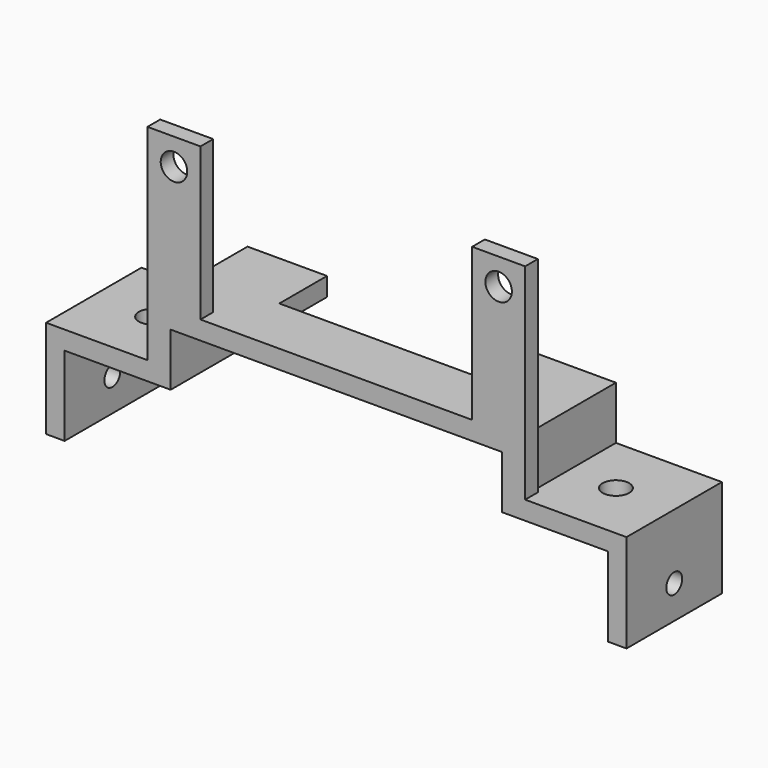
from build123d import *

# Parameters (mm, degrees)
F1_DEPTH = 4.5
F2_R     = 0.75
F3_DEPTH = 43.801
F4_R     = 1
F5_DEPTH = 1.2
F6_R     = 1
F6_W     = 15.8
F6_H     = 4.5
F7_DEPTH = 11.401


with BuildPart() as f1:
    # F0 (on Front) → F1 (new body, symmetric)
    with BuildSketch(Plane.XZ):
        Polygon((12.5, 4), (12.5, 0), (20.5, 0), (20.5, -6), (21.9, -6), (21.9, 1.4), (13.9, 1.4), (13.9, 5.4), (-13.9, 5.4), (-13.9, 1.4), (-21.9, 1.4), (-21.9, -6), (-20.5, -6), (-20.5, 0), (-12.5, 0), (-12.5, 4), align=None)
    extrude(amount=F1_DEPTH, both=True)

    # F2 (on face) → F3 (cut, through all)
    with BuildSketch(Plane.YZ.offset(21.9)):
        with Locations((0, -3.5)):
            Circle(F2_R)
    extrude(amount=-F3_DEPTH, mode=Mode.SUBTRACT)

    # F4 (on face) → F5 (join)
    with BuildSketch(Plane.XZ.offset(4.5)):
        Polygon((14.25, 16.9), (10.25, 16.9), (10.25, 5.4), (13.9, 5.4), (13.9, 1.4), (14.25, 1.4), align=None)
        with Locations((12.25, 14.9)):
            Circle(F4_R, mode=Mode.SUBTRACT)
        Polygon((-10.25, 16.9), (-14.25, 16.9), (-14.25, 1.4), (-13.9, 1.4), (-13.9, 5.4), (-10.25, 5.4), align=None)
        with Locations((-12.25, 14.9)):
            Circle(F4_R, mode=Mode.SUBTRACT)
    extrude(amount=-F5_DEPTH)

    # F6 (on face) → F7 (cut, through all)
    with BuildSketch(Plane.XY.offset(5.4)):
        with Locations((-17.5, 0)):
            Circle(F6_R)
        with Locations((17.5, 0)):
            Circle(F6_R)
        with Locations((0, 2.25)):
            Rectangle(F6_W, F6_H)
    extrude(amount=-F7_DEPTH, mode=Mode.SUBTRACT)


solid = f1.part
